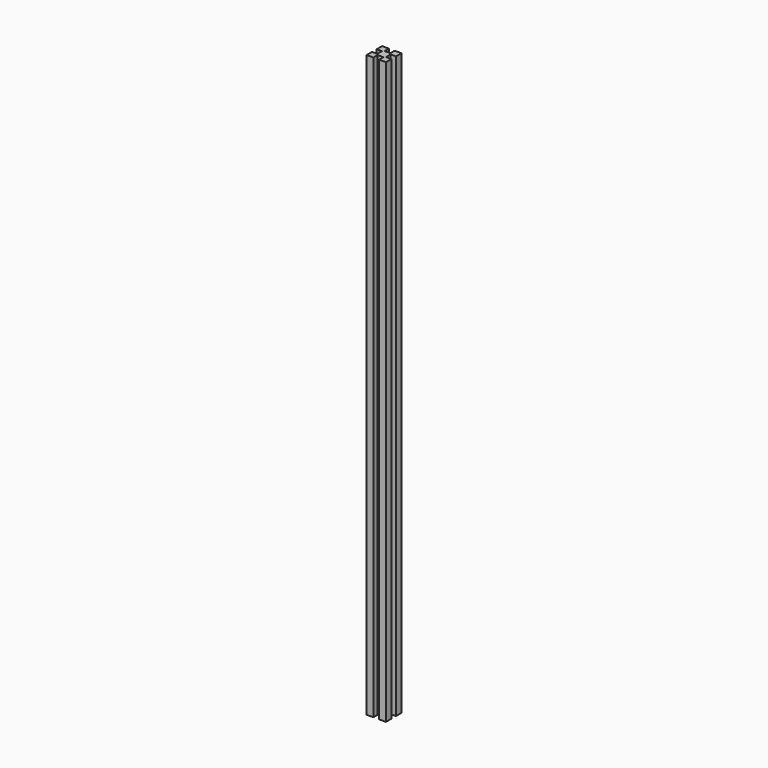
from build123d import *

# Parameters (mm, degrees)
F1_DEPTH = 600


with BuildPart() as f1:
    # F0 (on Top) → F1 (new body)
    with BuildSketch(Plane.XY):
        Polygon((0, 7), (0, 0), (7, 0), (7, 5.5), (13, 5.5), (13, 0), (20, 0), (20, 7), (14.5, 7), (14.5, 13), (20, 13), (20, 20), (13, 20), (13, 14.5), (7, 14.5), (7, 20), (0, 20), (0, 13), (5.5, 13), (5.5, 7), align=None)
    extrude(amount=F1_DEPTH)


solid = f1.part
